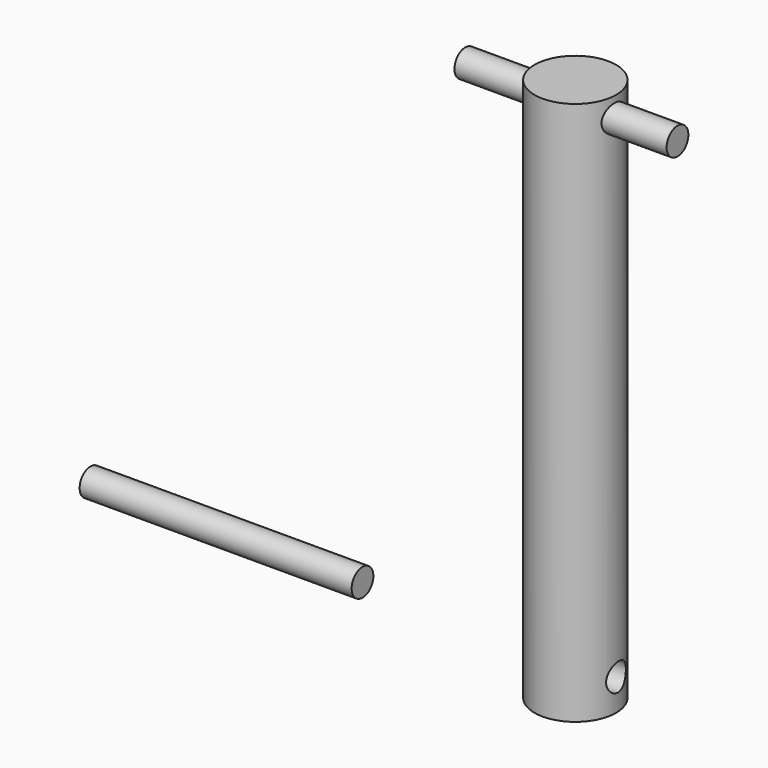
from build123d import *

# Parameters (mm, degrees)
F0_R      = 1.905
F1_DEPTH  = 25.4
F2_R      = 0.635
F3_DEPTH  = 27.559
F3_FACE_R = 0.635
F4_DEPTH  = 17.653
F5_R      = 0.635
F6_DEPTH  = 46.228
F7_DEPTH  = 12.7


with BuildPart() as f1:
    # F0 (on Top) → F1 (new body)
    with BuildSketch(Plane.XY):
        with Locations((22.743957, 23.962386)):
            Circle(F0_R)
    extrude(amount=F1_DEPTH)

    # F2 (on Right) → F3 (join)
    with BuildSketch(Plane.YZ):
        with Locations((23.906494, 24.470938)):
            Circle(F2_R)
    extrude(amount=F3_DEPTH)

    # F3_face (on face) → F4 (cut)
    with BuildSketch(Plane(origin=(0, 23.906494, 24.470938), x_dir=(0, 1, 0), z_dir=(-1, 0, 0))):
        Circle(F3_FACE_R)
    extrude(amount=-F4_DEPTH, mode=Mode.SUBTRACT)

    # F5 (on Right) → F6 (cut)
    with BuildSketch(Plane.YZ):
        with Locations((24.097327, 1.42678)):
            Circle(F5_R)
    extrude(amount=F6_DEPTH, mode=Mode.SUBTRACT)


with BuildPart() as f7:
    # F5 (on Right) → F7 (new body)
    with BuildSketch(Plane.YZ):
        with Locations((24.097327, 1.42678)):
            Circle(F5_R)
    extrude(amount=F7_DEPTH)


solid = Compound([f1.part, f7.part])
